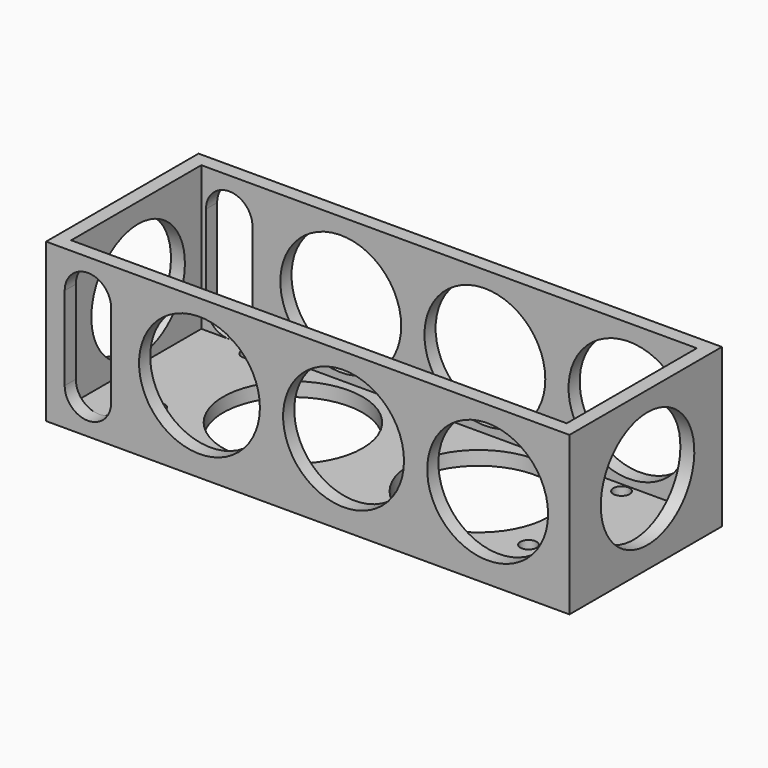
from build123d import *

# Parameters (mm, degrees)
SKETCH_W        = 112.6
SKETCH_H        = 34
PAD_DEPTH       = 41
SKETCH005_W     = 106.6
SKETCH005_H     = 35
POCKET_DEPTH    = 31
SKETCH007_R     = 13
POCKET001_DEPTH = 41.001
SKETCH006_R     = 1.75
SKETCH006_R_2   = 15
POCKET002_DEPTH = 5
SKETCH008_R     = 12.575466
POCKET003_DEPTH = 112.601


with BuildPart() as part:
    # Sketch → Pad (new body)
    with BuildSketch(Plane.XZ):
        with Locations((0, 17)):
            Rectangle(SKETCH_W, SKETCH_H)
    extrude(amount=PAD_DEPTH)

    # Sketch005 → Pocket (cut)
    with BuildSketch(Plane(origin=(0, 0, 34), x_dir=(-1, 0, 0), z_dir=(0, 0, 1))):
        with Locations((0, 20.5)):
            Rectangle(SKETCH005_W, SKETCH005_H)
    extrude(amount=-POCKET_DEPTH, mode=Mode.SUBTRACT)

    # Sketch007 → Pocket001 (cut, through all)
    with BuildSketch(Plane.XZ.offset(41)):
        with Locations((-23.3, 17.5)):
            Circle(SKETCH007_R)
        with Locations((7.7, 17.5)):
            Circle(SKETCH007_R)
        with Locations((38.7, 17.5)):
            Circle(SKETCH007_R)
        with BuildLine():
            ThreePointArc((-42.3, 26), (-47.3, 31), (-52.3, 26))
            Line((-52.3, 26), (-52.3, 8.000019))
            ThreePointArc((-52.3, 8.000019), (-47.3, 3), (-42.3, 8.000019))
            Line((-42.3, 26), (-42.3, 8.000019))
        make_face()
    extrude(amount=-POCKET001_DEPTH, mode=Mode.SUBTRACT)

    # Sketch006 → Pocket002 (cut)
    with BuildSketch(Plane(origin=(0, 0, 0), x_dir=(1, 0, 0), z_dir=(0, 0, -1))):
        with Locations((-41.3, 30)):
            Circle(SKETCH006_R)
        with Locations((38.7, 30)):
            Circle(SKETCH006_R)
        with Locations((-41.3, 5)):
            Circle(SKETCH006_R)
        with Locations((38.7, 5)):
            Circle(SKETCH006_R)
        with Locations((-20, 20)):
            Circle(SKETCH006_R_2)
        with Locations((20, 20)):
            Circle(SKETCH006_R_2)
    extrude(amount=-POCKET002_DEPTH, mode=Mode.SUBTRACT)

    # Sketch008 → Pocket003 (cut, through all)
    with BuildSketch(Plane(origin=(56.3, 0, 0), x_dir=(0, 0, 1), z_dir=(1, 0, 0))):
        with Locations((17.195639, 20)):
            Circle(SKETCH008_R)
    extrude(amount=-POCKET003_DEPTH, mode=Mode.SUBTRACT)


solid = part.part
